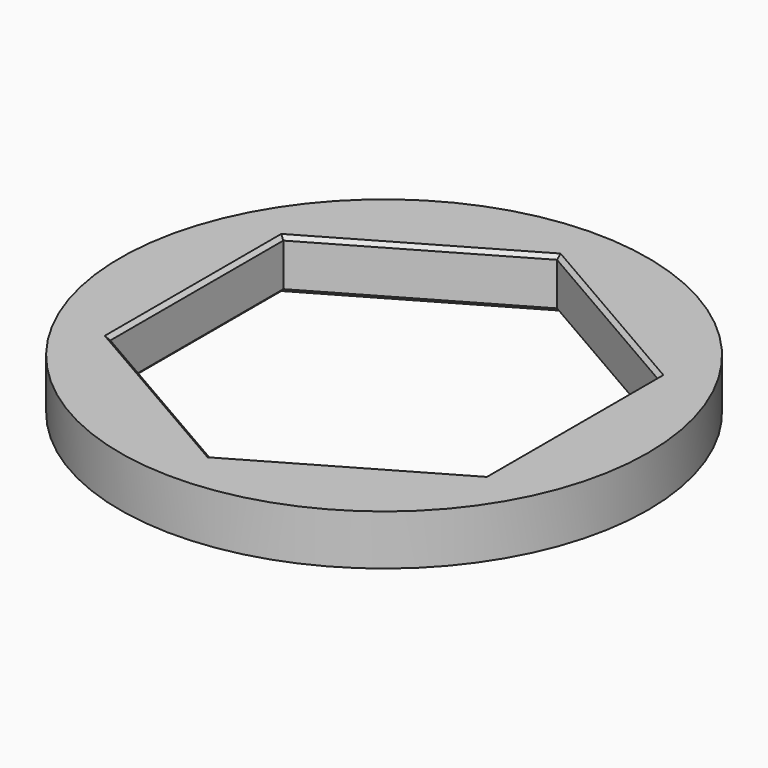
from build123d import *

# Parameters (mm, degrees)
SKETCH_R        = 21
PAD_DEPTH       = 4
CHAMFER_SIZE    = 0.3
CHAMFER001_SIZE = 0.3


with BuildPart() as part:
    # Sketch → Pad (new body)
    with BuildSketch(Plane.XY):
        Circle(SKETCH_R)
        Polygon((0, 17.205038), (-14.9, 8.602519), (-14.9, -8.602519), (0, -17.205038), (14.9, -8.602519), (14.9, 8.602519), align=None, mode=Mode.SUBTRACT)
    extrude(amount=PAD_DEPTH)

    # Chamfer
    chamfer_edges = [part.edges().sort_by_distance(p)[0] for p in [
        (-7.45, 12.903779, 4),
        (-14.9, 0, 4),
        (-7.45, -12.903779, 4),
        (7.45, -12.903779, 4),
        (14.9, 0, 4),
        (7.45, 12.903779, 4),
    ]]
    chamfer(chamfer_edges, length=CHAMFER_SIZE)

    # Chamfer001
    chamfer001_edges = [part.edges().sort_by_distance(p)[0] for p in [
        (-7.45, -12.903779, 0),
        (-14.9, 0, 0),
        (-7.45, 12.903779, 0),
        (7.45, 12.903779, 0),
        (14.9, 0, 0),
        (7.45, -12.903779, 0),
    ]]
    chamfer(chamfer001_edges, length=CHAMFER001_SIZE)


solid = part.part
